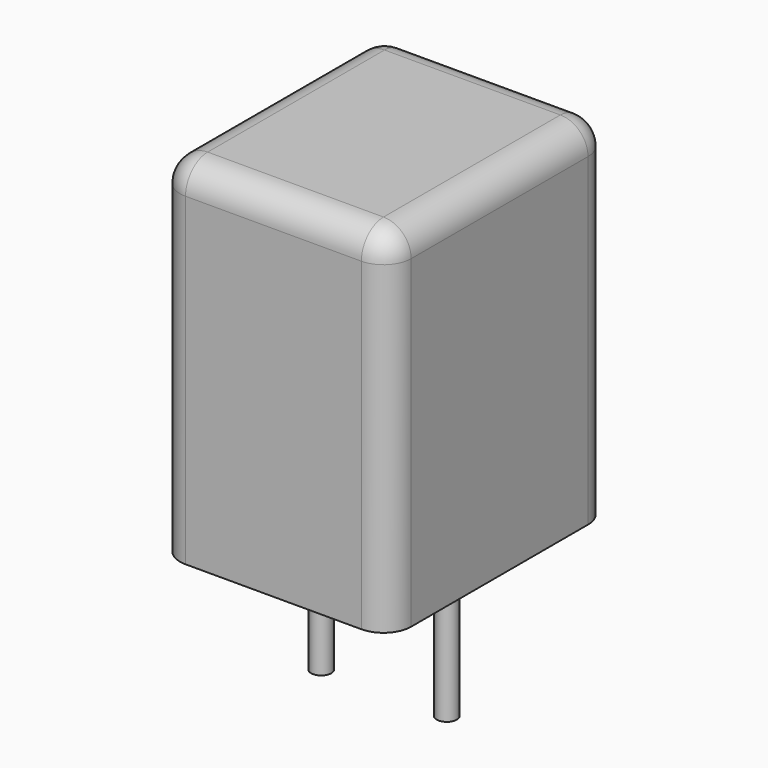
from build123d import *

# Parameters (mm, degrees)
SKETCH_W     = 4.6
SKETCH_H     = 5.5
PAD_DEPTH    = 7
FILLET_R     = 0.55
SKETCH001_R  = 0.2
PAD001_DEPTH = 3.2


with BuildPart() as fillet_body:
    # Sketch → Pad (new body)
    with BuildSketch(Plane.XY.offset(0.1)):
        with Locations((1.25, 0)):
            Rectangle(SKETCH_W, SKETCH_H)
    extrude(amount=PAD_DEPTH)

    # Fillet
    fillet_edges = [fillet_body.edges().sort_by_distance(p)[0] for p in [
        (-1.05, 0, 7.1),
        (-1.05, -2.75, 3.6),
        (1.25, -2.75, 7.1),
        (3.55, -2.75, 3.6),
        (3.55, 0, 7.1),
        (3.55, 2.75, 3.6),
        (1.25, 2.75, 7.1),
        (-1.05, 2.75, 3.6),
    ]]
    fillet(fillet_edges, radius=FILLET_R)


with BuildPart() as pad001:
    # Sketch001 → Pad001 (new body)
    with BuildSketch(Plane.XY.offset(0.5)):
        Circle(SKETCH001_R)
        with Locations((2.5, 0)):
            Circle(SKETCH001_R)
    extrude(amount=-PAD001_DEPTH)


solid = Compound([fillet_body.part, pad001.part])
